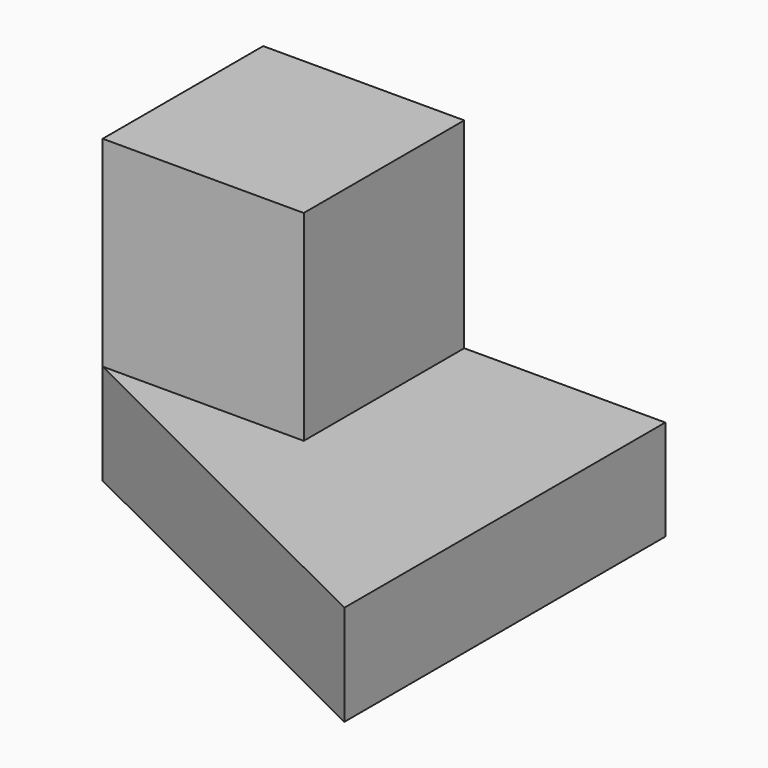
from build123d import *

# Parameters (mm, degrees)
F0_W     = 1018.2218551636
F0_H     = 762.5373601913
F1_DEPTH = 1016
F3_DEPTH = 784.86
F5_DEPTH = 508
F6_W     = 509.1109275818
F6_H     = 508
F7_DEPTH = 543.56


with BuildPart() as f1:
    # F0 (on Front) → F1 (new body)
    with BuildSketch(Plane.XZ):
        with Locations((509.1109275818, 381.2686800957)):
            Rectangle(F0_W, F0_H)
    extrude(amount=F1_DEPTH)

    # F2 (on face) → F3 (cut)
    with BuildSketch(Plane.XY.offset(762.5373601913)):
        Polygon((1018.2218551636, -1016), (0, -508), (0, -1016), align=None)
    extrude(amount=-F3_DEPTH, mode=Mode.SUBTRACT)

    # F4 (on face) → F5 (cut)
    with BuildSketch(Plane.XY.offset(762.5373601913)):
        Polygon((1018.2218551636, -508), (0, -508), (1018.2218551636, -1016), align=None)
    extrude(amount=-F5_DEPTH, mode=Mode.SUBTRACT)

    # F6 (on face) → F7 (cut)
    with BuildSketch(Plane.XZ.offset(508)):
        with Locations((763.6663913727, 508.5373601913)):
            Rectangle(F6_W, F6_H)
    extrude(amount=-F7_DEPTH, mode=Mode.SUBTRACT)


solid = f1.part
